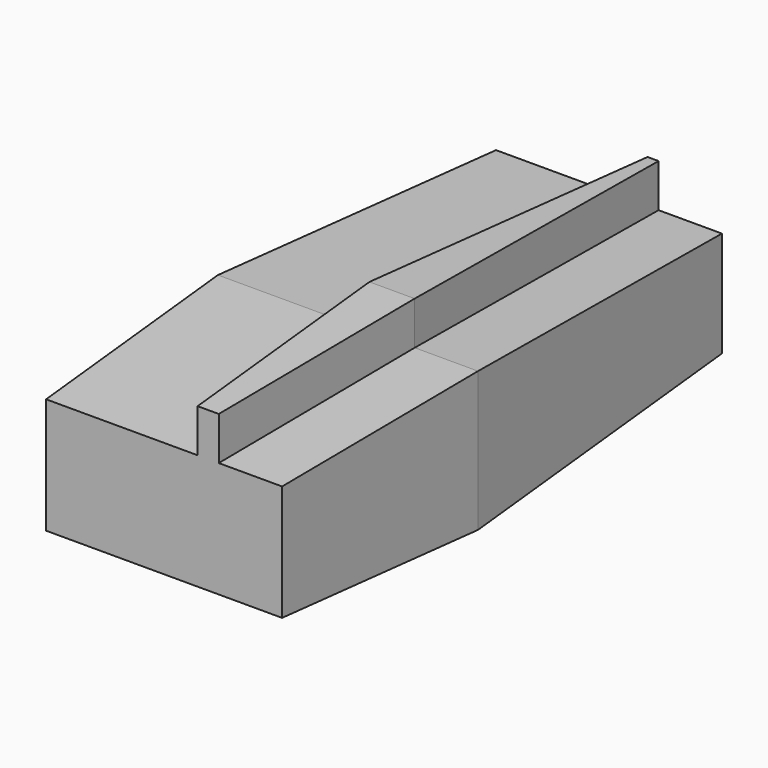
from build123d import *

# Parameters (mm, degrees)
F0_W          = 5
F0_H          = 4.7786854745
F1_DEPTH      = 36.068
F1_TAPER      = 3
F1_DEPTH_BACK = 25.4
F1_TAPER_BACK = 3


with BuildPart() as f1:
    # F0 (on Front) → F1 (new body, two sides)
    with BuildSketch(Plane.XZ) as f1_sk:
        Polygon((9.1014920583, 12.9509297859), (-7.6485093721, 12.9509297859), (-7.6485093721, -2.4996599448), (21.1014937648, -2.4996599448), (21.1014937648, 12.9509297859), (14.1014920583, 12.9509297859), align=None)
        with Locations((11.6014920583, 15.3402725232)):
            Rectangle(F0_W, F0_H)
    extrude(amount=-F1_DEPTH, taper=F1_TAPER)
    extrude(f1_sk.sketch, amount=F1_DEPTH_BACK, taper=F1_TAPER_BACK)


solid = f1.part
